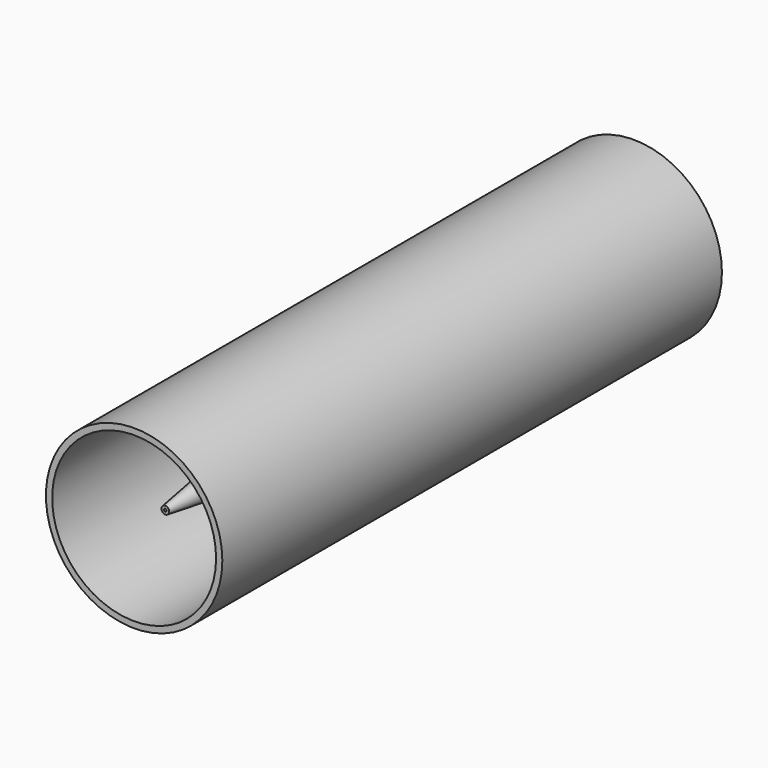
from build123d import *

# Parameters (mm, degrees)
F0_R          = 52.5
F2_R          = 2.5
F4_T          = -1.6
F0_R_2        = 56.5
F5_DEPTH      = 375
F5_DEPTH_BACK = 25


with BuildPart() as f3:
    # F0 (on Front) → F3 section 0
    with BuildSketch(Plane.XZ):
        Circle(F0_R)
    # F2 (on offset) → F3 section 1
    with BuildSketch(Plane.XZ.offset(350)):
        Circle(F2_R)
    loft()

    # F4
    f4_openings = [f3.faces().sort_by_distance(p)[0] for p in [
        (0, 0, 0),
        (0, -350, 0),
    ]]
    offset(amount=F4_T, openings=f4_openings, kind=Kind.INTERSECTION)


with BuildPart() as f5:
    # F0 (on Front) → F5 (new body, two sides)
    with BuildSketch(Plane.XZ) as f5_sk:
        Circle(F0_R_2)
        Circle(F0_R, mode=Mode.SUBTRACT)
    extrude(amount=F5_DEPTH)
    extrude(f5_sk.sketch, amount=-F5_DEPTH_BACK)


solid = Compound([f3.part, f5.part])
